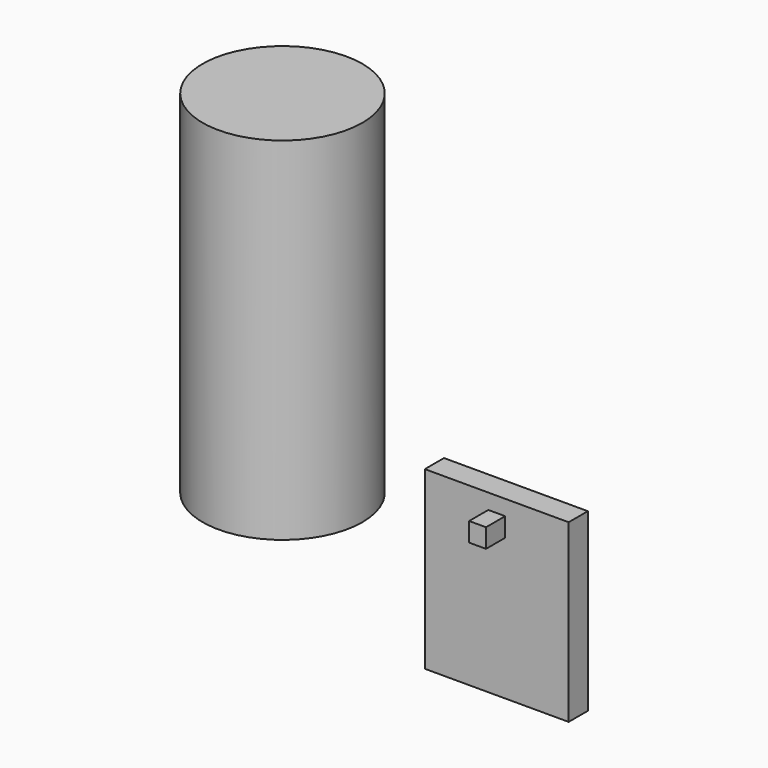
from build123d import *

# Parameters (mm, degrees)
F0_W     = 114.3
F0_H     = 139.7
F1_DEPTH = 19.05
F2_T     = -2.54
F4_START = 19.05
F3_W     = 13.4108727798
F3_H     = 15.1262134314
F4_DEPTH = 19.05
F5_R     = 63.5
F6_DEPTH = 279.4


with BuildPart() as f1:
    # F0 (on Front) → F1 (new body)
    with BuildSketch(Plane.XZ):
        Rectangle(F0_W, F0_H)
    extrude(amount=F1_DEPTH)

    # F2
    f2_openings = [f1.faces().sort_by_distance(p)[0] for p in [
        (0, 0, 0),
    ]]
    offset(amount=F2_T, openings=f2_openings)

    # F3 (on Front) → F4 (join)
    with BuildSketch(Plane.XZ.offset(F4_START)):
        with Locations((0, 50.1240901649)):
            Rectangle(F3_W, F3_H)
    extrude(amount=F4_DEPTH)


with BuildPart() as f6:
    # F5 (on Top) → F6 (new body)
    with BuildSketch(Plane.XY):
        with Locations((-190.1454031467, 5.8117690496)):
            Circle(F5_R)
    extrude(amount=F6_DEPTH)


solid = Compound([f1.part, f6.part])
